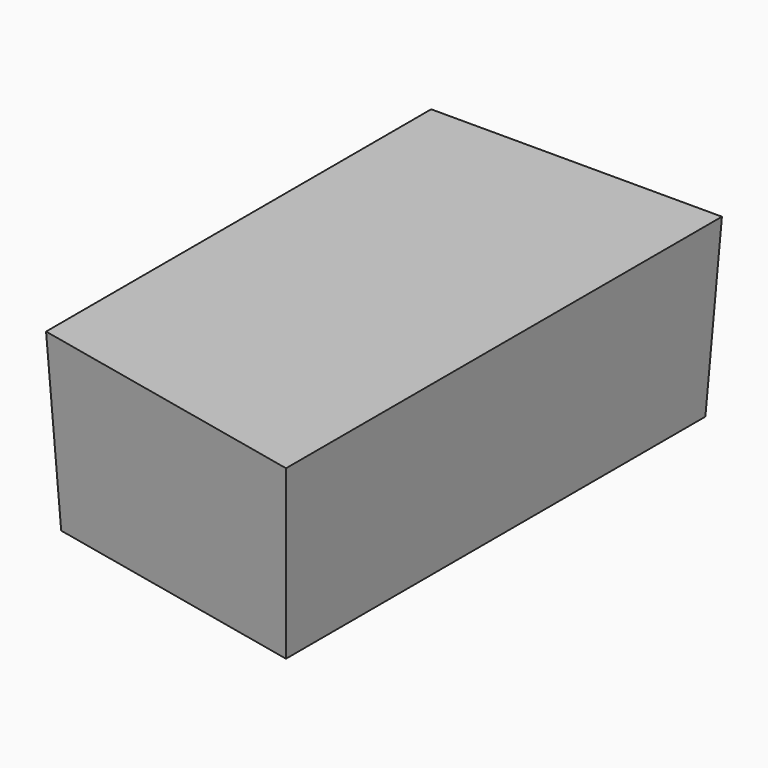
from build123d import *

# Parameters (mm, degrees)
F1_DEPTH = 25.4
F1_TAPER = -3


with BuildPart() as f1:
    # F0 (on Top) → F1 (new body)
    with BuildSketch(Plane.XY):
        Polygon((-133.5762739182, 15.0198759511), (-133.5762739182, -52.3168668151), (-94.1133648157, -60.9369948506), (-94.1133648157, 15.0198759511), align=None)
    extrude(amount=F1_DEPTH, taper=F1_TAPER)


solid = f1.part
